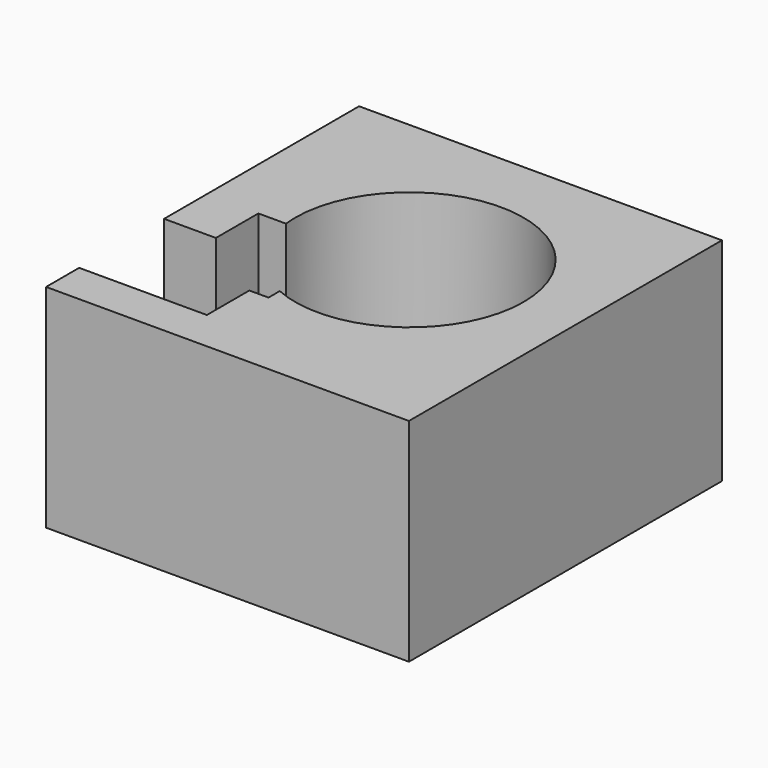
from build123d import *

# Parameters (mm, degrees)
F0_W     = 64.227912575
F0_H     = 69.2516341805
F1_DEPTH = 37.5227332115
F2_R     = 20.2179019698
F3_DEPTH = 93.5621410608
F4_W     = 13.437692076
F4_H     = 9.3960277736
F5_DEPTH = 134.1055929661


with BuildPart() as f1:
    # F0 (on Top) → F1 (new body)
    with BuildSketch(Plane.XY):
        with Locations((-2.0325984806, -3.0785240233)):
            Rectangle(F0_W, F0_H)
    extrude(amount=F1_DEPTH)

    # F2 (on face) → F3 (cut)
    with BuildSketch(Plane.XY.offset(37.5227332115)):
        Circle(F2_R)
    extrude(amount=-F3_DEPTH, mode=Mode.SUBTRACT)

    # F4 (on face) → F5 (cut)
    with BuildSketch(Plane.XY.offset(37.5227332115)):
        with Locations((-18.2582512498, -25.6907660514)):
            Rectangle(F4_W, F4_H)
        with Locations((-31.6959433258, -25.6907660514)):
            Rectangle(F4_W, F4_H)
        with Locations((-18.2582512498, -16.2947382778)):
            Rectangle(F4_W, F4_H)
        Polygon((-11.5394052118, -11.596724391), (-11.5394052118, -20.9927521646), (-8.1456769597, -20.9927521646), (-8.1456769597, -2.2006966174), (-24.9770972878, -2.2006966174), (-24.9770972878, -11.596724391), align=None)
        with Locations((-31.6959433258, -16.2947382778)):
            Rectangle(F4_W, F4_H)
    extrude(amount=-F5_DEPTH, mode=Mode.SUBTRACT)


solid = f1.part
